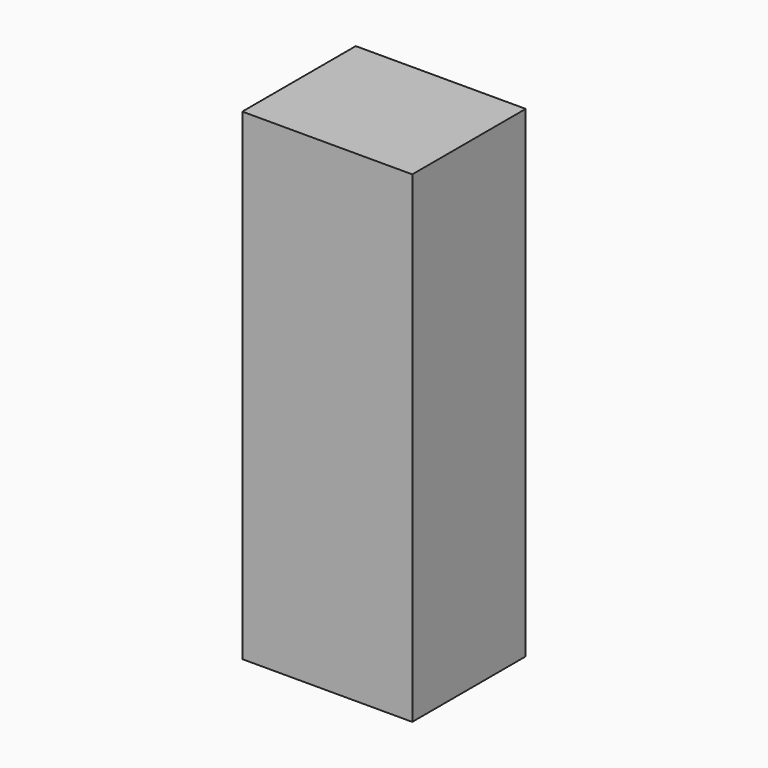
from build123d import *

# Parameters (mm, degrees)
F0_W     = 89.56556
F0_H     = 74.733049
F1_DEPTH = 254
F2_W     = 46.779464
F2_H     = 39.933689
F3_DEPTH = 76.2


with BuildPart() as f1:
    # F0 (on Top) → F1 (new body)
    with BuildSketch(Plane.XY):
        with Locations((8.271977, 1.283583)):
            Rectangle(F0_W, F0_H)
    extrude(amount=F1_DEPTH)

    # F2 (on Top) → F3 (cut)
    with BuildSketch(Plane.XY):
        with Locations((0, -6.132674)):
            Rectangle(F2_W, F2_H)
    extrude(amount=-F3_DEPTH, mode=Mode.SUBTRACT)


solid = f1.part
